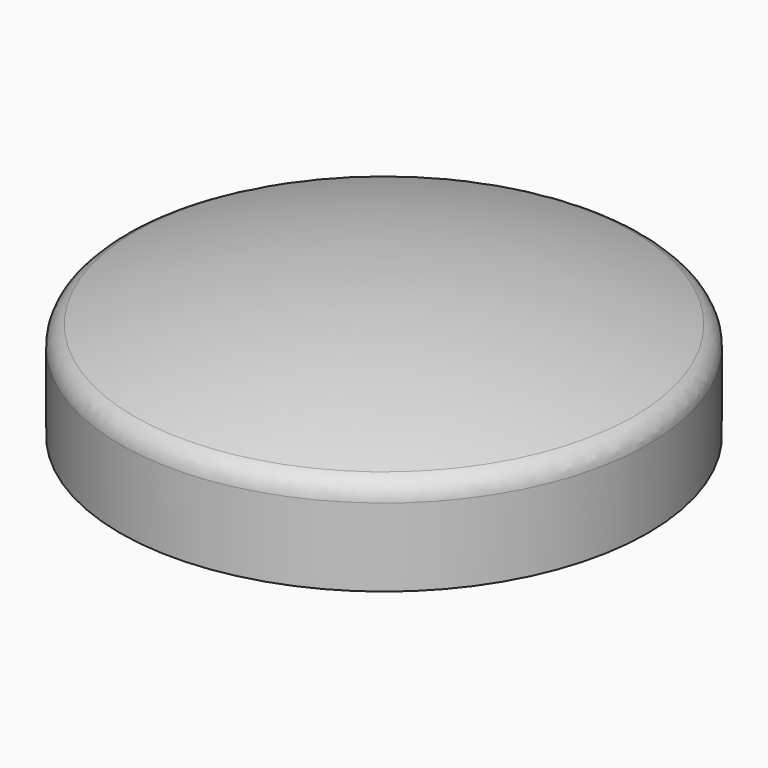
from build123d import *

# Parameters (mm, degrees)
F2_R = 1.27


with BuildPart() as f1:
    # F0 (on Front) → F1 (revolve)
    with BuildSketch(Plane.XZ):
        with BuildLine():
            Line((0, 8.382), (0, 0))
            Line((0, 0), (15.875, 0))
            Line((15.875, 0), (15.875, 5.588))
            ThreePointArc((15.875, 5.588), (8.059498, 7.678173), (0, 8.382))
        make_face()
    revolve(axis=Axis((0, 0, 4.191), (0, 0, 1)))

    # F2
    f2_edges = [f1.edges().sort_by_distance(p)[0] for p in [
        (-15.875, 0, 5.588),
    ]]
    fillet(f2_edges, radius=F2_R)


solid = f1.part
